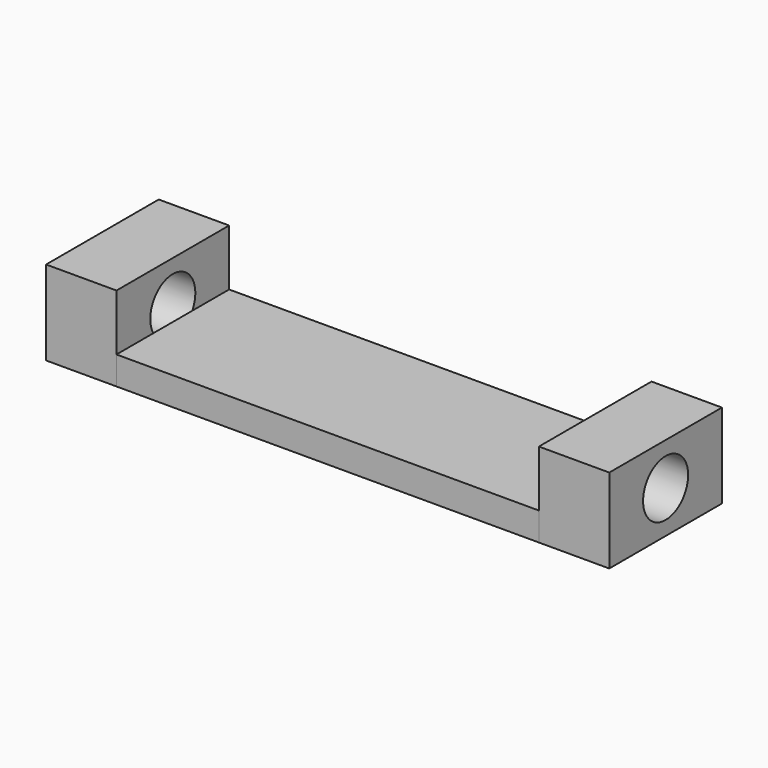
from build123d import *

# Parameters (mm, degrees)
F4_DEPTH = 75
F7_DEPTH = 75
F0_W     = 450
F0_H     = 150
F8_DEPTH = 30


with BuildPart() as f4:
    # F3 (on offset) → F4 (new body)
    with BuildSketch(Plane.YZ.offset(300)):
        Polygon((-75, 0), (0, 0), (75, 0), (75, 90), (-75, 90), align=None)
        with BuildLine():
            ThreePointArc((30, 45), (21.2132034356, 23.7867965644), (0, 15))
            ThreePointArc((0, 15), (-21.2132034356, 66.2132034356), (30, 45))
        make_face(mode=Mode.SUBTRACT)
    extrude(amount=-F4_DEPTH)


with BuildPart() as f7:
    # F6 (on offset) → F7 (new body)
    with BuildSketch(Plane.YZ.offset(-300)):
        Polygon((-75, 0), (0, 0), (75, 0), (75, 90), (-75, 90), align=None)
        with BuildLine():
            ThreePointArc((30, 45), (21.2132034356, 23.7867965644), (0, 15))
            ThreePointArc((0, 15), (-21.2132034356, 66.2132034356), (30, 45))
        make_face(mode=Mode.SUBTRACT)
    extrude(amount=F7_DEPTH)


with BuildPart() as f8:
    # F0 (on Top) → F8 (new body)
    with BuildSketch(Plane.XY):
        Rectangle(F0_W, F0_H)
    extrude(amount=F8_DEPTH)


solid = Compound([f4.part, f7.part, f8.part])
